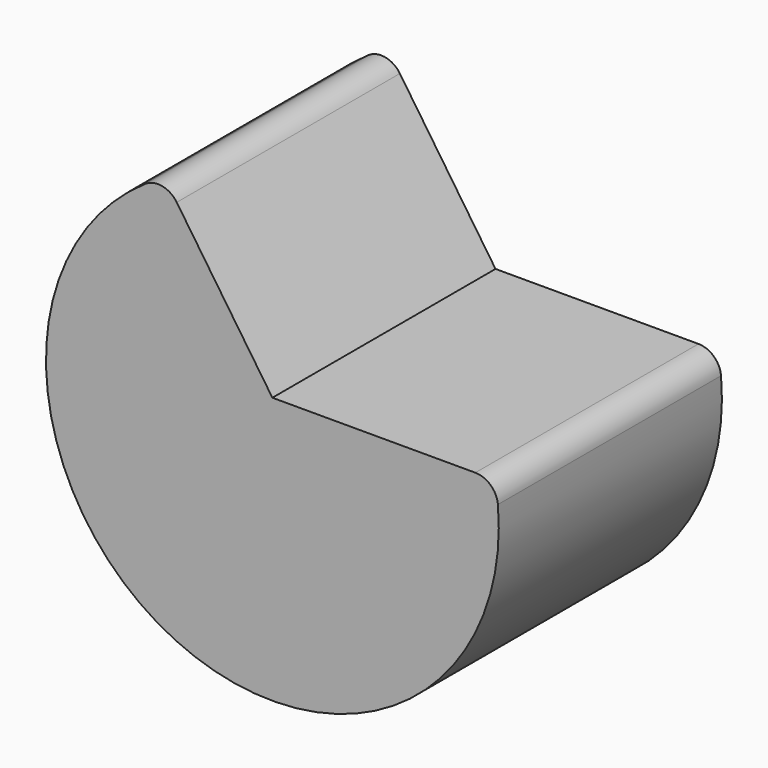
from build123d import *

# Parameters (mm, degrees)
F1_DEPTH = 78.232


with BuildPart() as f1:
    # F0 (on Front) → F1 (new body)
    with BuildSketch(Plane.XZ):
        with BuildLine():
            ThreePointArc((-26.824391, 50.863773), (-30.883831, 53.534434), (-35.642884, 52.553162))
            ThreePointArc((-35.642884, 52.553162), (-27.260069, -57.351012), (63.257536, 5.543838))
            ThreePointArc((63.257536, 5.543838), (61.221431, 9.671485), (56.931782, 11.339454))
            Line((56.931782, 11.339454), (0, 11.339454))
            Line((0, 11.339454), (-26.824391, 50.863773))
        make_face()
    extrude(amount=F1_DEPTH)


solid = f1.part
